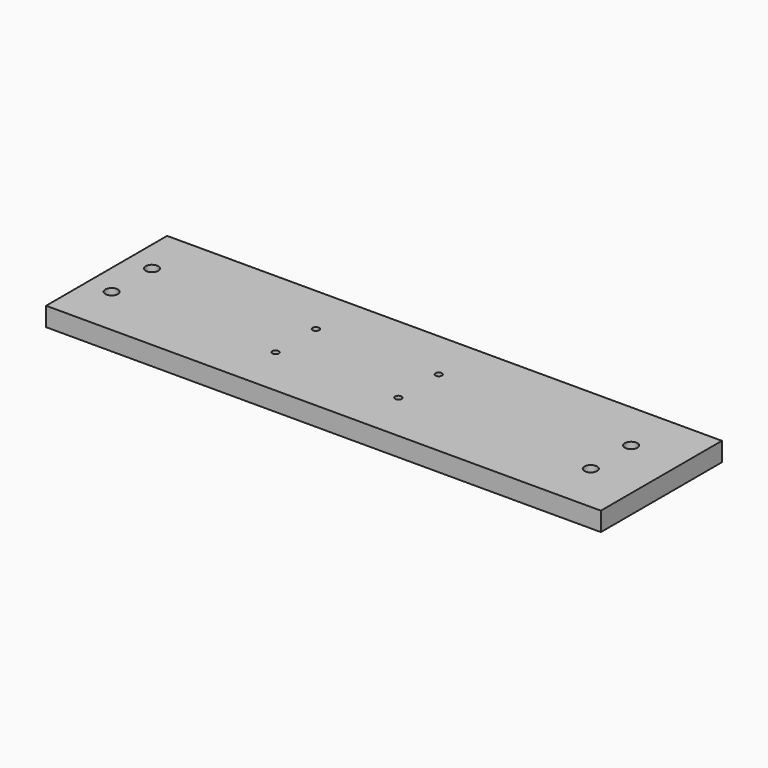
from build123d import *

# Parameters (mm, degrees)
F0_W     = 279.4
F0_H     = 76.2
F0_R     = 3.175
F0_R_2   = 1.651
F1_DEPTH = 4.7625


with BuildPart() as f1:
    # F0 (on Top) → F1 (new body, symmetric)
    with BuildSketch(Plane.XY):
        with Locations((-12.7, 0)):
            Rectangle(F0_W, F0_H)
        with Locations((-139.7, -12.7)):
            Circle(F0_R, mode=Mode.SUBTRACT)
        with Locations((-57.15, -12.7)):
            Circle(F0_R_2, mode=Mode.SUBTRACT)
        with Locations((4.699, -12.7)):
            Circle(F0_R_2, mode=Mode.SUBTRACT)
        with Locations((101.6, -12.7)):
            Circle(F0_R, mode=Mode.SUBTRACT)
        with Locations((-139.7, 12.7)):
            Circle(F0_R, mode=Mode.SUBTRACT)
        with Locations((-57.15, 12.7)):
            Circle(F0_R_2, mode=Mode.SUBTRACT)
        with Locations((4.699, 12.7)):
            Circle(F0_R_2, mode=Mode.SUBTRACT)
        with Locations((101.6, 12.7)):
            Circle(F0_R, mode=Mode.SUBTRACT)
    extrude(amount=F1_DEPTH, both=True)


solid = f1.part
